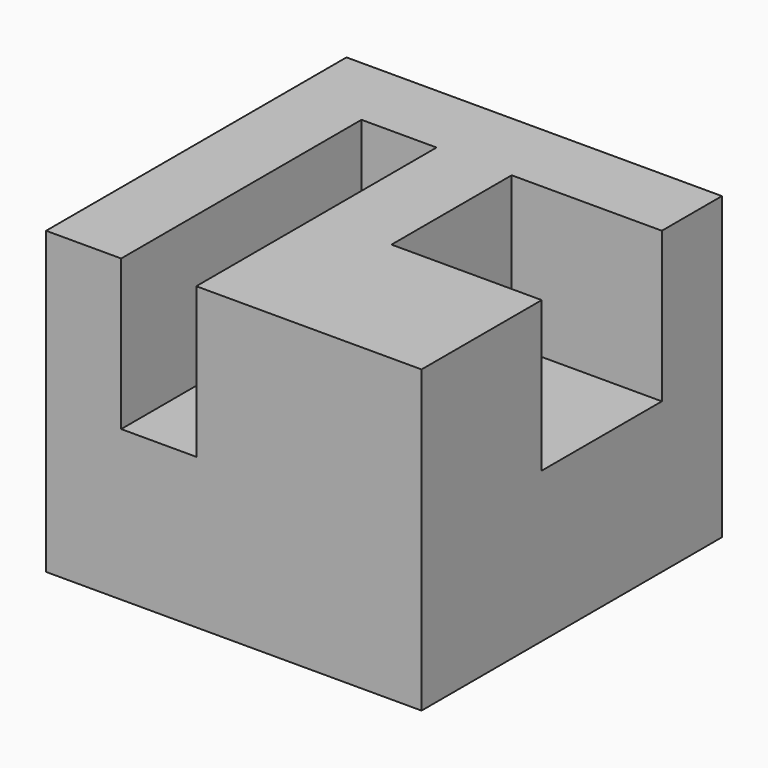
from build123d import *

# Parameters (mm, degrees)
F0_W     = 63.5
F0_H     = 50.8
F1_DEPTH = 63.5
F2_W     = 12.7
F2_H     = 50.8
F3_DEPTH = 25.4
F2_W_2   = 25.4
F2_H_2   = 25.4
F4_DEPTH = 25.4


with BuildPart() as f1:
    # F0 (on Front) → F1 (new body)
    with BuildSketch(Plane.XZ):
        with Locations((-9.895136, -14.676312)):
            Rectangle(F0_W, F0_H)
    extrude(amount=F1_DEPTH)

    # F2 (on face) → F3 (cut)
    with BuildSketch(Plane.XY.offset(10.723688)):
        with Locations((-22.595136, -38.1)):
            Rectangle(F2_W, F2_H)
    extrude(amount=-F3_DEPTH, mode=Mode.SUBTRACT)

    # F2 (on face) → F4 (cut)
    with BuildSketch(Plane.XY.offset(10.723688)):
        with Locations((9.154864, -25.4)):
            Rectangle(F2_W_2, F2_H_2)
    extrude(amount=-F4_DEPTH, mode=Mode.SUBTRACT)


solid = f1.part
